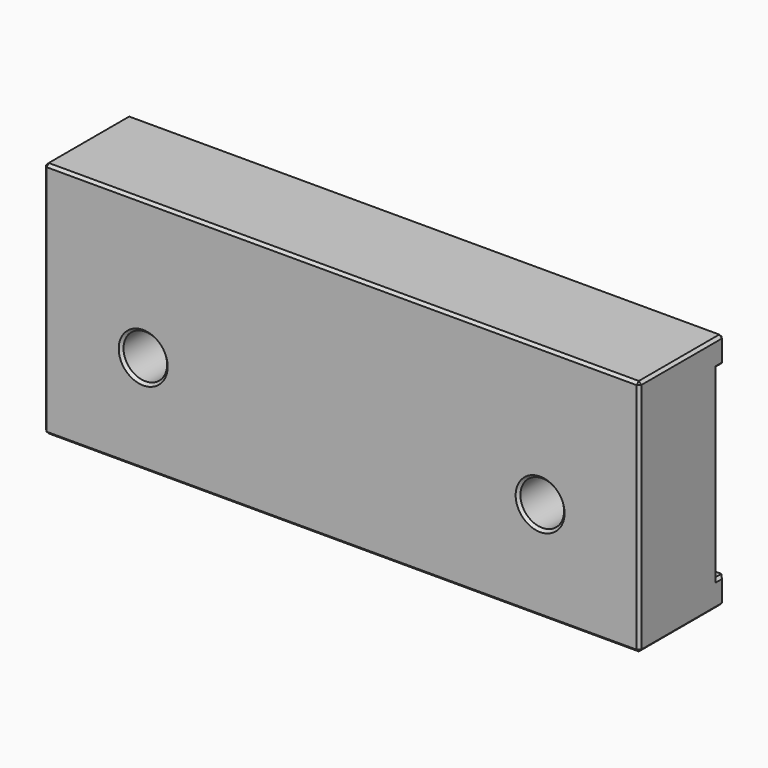
from build123d import *

# Parameters (mm, degrees)
F0_W     = 57.15
F0_H     = 22.86
F0_R     = 2.0955
F1_DEPTH = 9.398
F2_W     = 57.15
F2_H     = 2.5331471565
F3_DEPTH = 0.762
F4_W     = 57.15
F4_H     = 2.54
F5_DEPTH = 0.762
F6_SIZE  = 0.254


with BuildPart() as f1:
    # F0 (on Front) → F1 (new body)
    with BuildSketch(Plane.XZ):
        Rectangle(F0_W, F0_H)
        with Locations((-19.05, -1.905)):
            Circle(F0_R, mode=Mode.SUBTRACT)
        with Locations((19.05, -1.905)):
            Circle(F0_R, mode=Mode.SUBTRACT)
    extrude(amount=F1_DEPTH)

    # F2 (on face) → F3 (join)
    with BuildSketch(Plane(origin=(0, 0, 0), x_dir=(-1, 0, 0), z_dir=(0, 1, 0))):
        with Locations((0, -10.1634264217)):
            Rectangle(F2_W, F2_H)
    extrude(amount=F3_DEPTH)

    # F4 (on face) → F5 (join)
    with BuildSketch(Plane(origin=(0, 0, 0), x_dir=(-1, 0, 0), z_dir=(0, 1, 0))):
        with Locations((0, 10.16)):
            Rectangle(F4_W, F4_H)
    extrude(amount=F5_DEPTH)

    # F6
    f6_edges = [f1.edges().sort_by_distance(p)[0] for p in [
        (28.575, 0, -0.003426),
        (-28.575, -4.318, 11.43),
        (28.575, -4.318, 11.43),
        (0, 0.762, 11.43),
        (-21.1455, -9.398, -1.905),
        (16.9545, -9.398, -1.905),
        (0, -9.398, -11.43),
        (0, -9.398, 11.43),
        (28.575, -9.398, 0),
        (-28.575, -9.398, 0),
        (28.575, -4.318, -11.43),
        (-28.575, 0, -0.003426),
        (28.575, 0.762, 10.16),
        (28.575, 0.381, 8.89),
        (-28.575, -4.318, -11.43),
        (16.9545, 0, -1.905),
        (28.575, 0.381, -8.896853),
        (-21.1455, 0, -1.905),
        (28.575, 0.762, -10.163426),
        (0, 0.762, -11.43),
        (-28.575, 0.762, 10.16),
        (-28.575, 0.381, 8.89),
        (-28.575, 0.762, -10.163426),
        (-28.575, 0.381, -8.896853),
    ]]
    chamfer(f6_edges, length=F6_SIZE)


solid = f1.part
